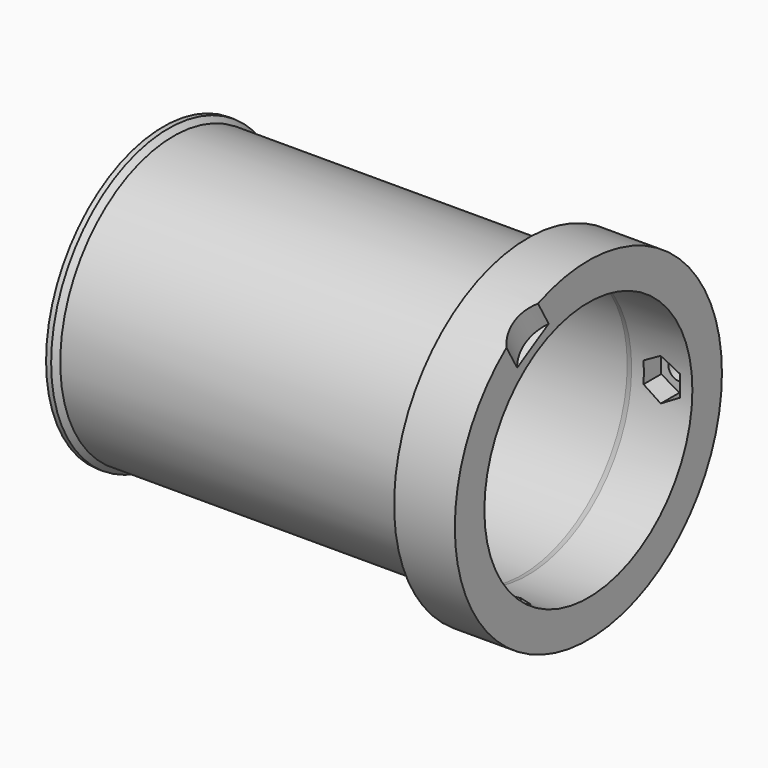
from build123d import *

# Parameters (mm, degrees)
POCKET027_DEPTH       = 30
SKETCH032_R           = 2.2
POCKET028_DEPTH       = 284.142394
POLARPATTERN002_COUNT = 2
POLARPATTERN002_ANGLE = 240
SKETCH146_R           = 7.5
POCKET091_DEPTH       = 17.679838


with BuildPart() as part:
    # Sketch022 → Revolution001 (revolve)
    with BuildSketch(Plane.XY):
        Polygon((0, 26), (70.880385, 26), (72, 25.7), (84, 25.7), (84, 33), (72, 33), (72, 28), (2, 28), (1, 29), (0, 29), align=None)
    revolve(axis=Axis((0, 0, 0), (1, 0, 0)))

    # Sketch031 (on DatumPlane) → Pocket027 (cut)
    with BuildSketch(Plane(origin=(78, 0, 0), x_dir=(1, 0, 0), z_dir=(0, -1, 0))):
        Polygon((3.6, 2.078461), (0, 4.156922), (-3.6, 2.078461), (-3.6, -2.078461), (0, -4.156922), (3.6, -2.078461), align=None)
    pocket027 = extrude(amount=-POCKET027_DEPTH, mode=Mode.SUBTRACT)

    # Sketch032 (on DatumPlane) → Pocket028 (cut, through all)
    with BuildSketch(Plane(origin=(78, 0, 0), x_dir=(1, 0, 0), z_dir=(0, -1, 0))):
        Circle(SKETCH032_R)
    pocket028 = extrude(amount=-POCKET028_DEPTH, mode=Mode.SUBTRACT)

    # PolarPattern002: Pocket028, Pocket027 ×2 about axis
    polarpattern002_axis = Axis((0, 0, 0), (1, 0, 0))
    for i in range(1, POLARPATTERN002_COUNT):
        add(pocket028.rotate(polarpattern002_axis, i * POLARPATTERN002_ANGLE / (POLARPATTERN002_COUNT - 1)), mode=Mode.SUBTRACT)
        add(pocket027.rotate(polarpattern002_axis, i * POLARPATTERN002_ANGLE / (POLARPATTERN002_COUNT - 1)), mode=Mode.SUBTRACT)

    # Sketch146 (on DatumPlane) → Pocket091 (cut, through all)
    with BuildSketch(Plane(origin=(72, -13.7, 23.729096), x_dir=(1, 0, 0), z_dir=(0, 0.5, -0.866025))):
        with Locations((18, 0)):
            Circle(SKETCH146_R)
    extrude(amount=-POCKET091_DEPTH, mode=Mode.SUBTRACT)


with BuildPart() as part_1:
    # Body007 placement: moved
    add(part.part.moved(Location((110, 0, 834))))


solid = part_1.part
